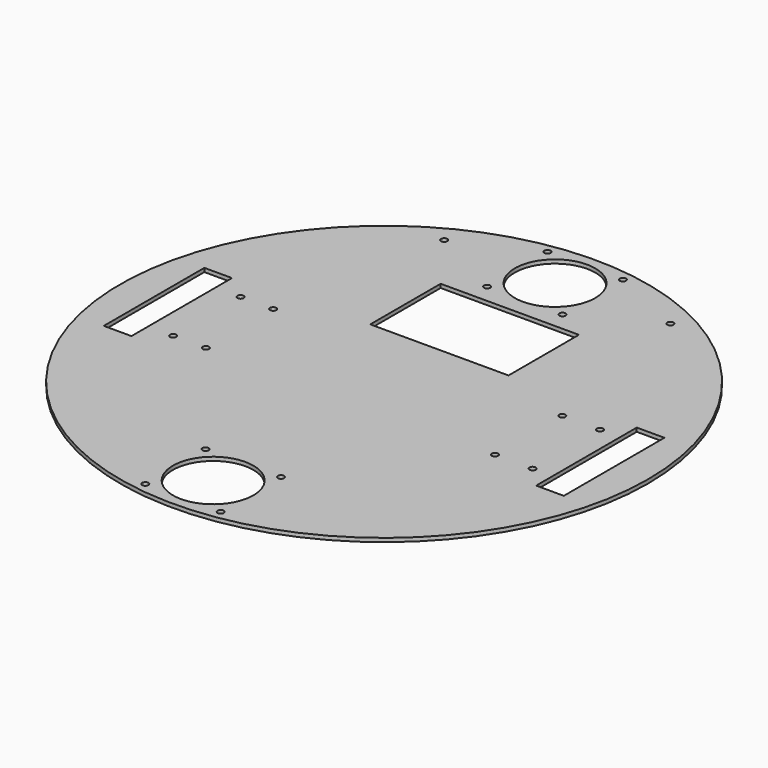
from build123d import *

# Parameters (mm, degrees)
SKETCH_R   = 210
SKETCH_R_2 = 32
SKETCH_R_3 = 2.5
SKETCH_W   = 22
SKETCH_H   = 100
SKETCH_W_2 = 110
SKETCH_H_2 = 70
PAD_DEPTH  = 1.5


with BuildPart() as part:
    # Sketch → Pad (new body, symmetric)
    with BuildSketch(Plane.XY):
        Circle(SKETCH_R)
        with Locations((0, 170)):
            Circle(SKETCH_R_2, mode=Mode.SUBTRACT)
        with Locations((0, -170)):
            Circle(SKETCH_R_2, mode=Mode.SUBTRACT)
        with Locations((-141, 33.5)):
            Circle(SKETCH_R_3, mode=Mode.SUBTRACT)
        with Locations((-141, -33.5)):
            Circle(SKETCH_R_3, mode=Mode.SUBTRACT)
        with Locations((-115, 33.5)):
            Circle(SKETCH_R_3, mode=Mode.SUBTRACT)
        with Locations((-115, -33.5)):
            Circle(SKETCH_R_3, mode=Mode.SUBTRACT)
        with Locations((115, 33.5)):
            Circle(SKETCH_R_3, mode=Mode.SUBTRACT)
        with Locations((115, -33.5)):
            Circle(SKETCH_R_3, mode=Mode.SUBTRACT)
        with Locations((145, 33.5)):
            Circle(SKETCH_R_3, mode=Mode.SUBTRACT)
        with Locations((145, -33.5)):
            Circle(SKETCH_R_3, mode=Mode.SUBTRACT)
        with Locations((-90, 172.29129)):
            Circle(SKETCH_R_3, mode=Mode.SUBTRACT)
        with Locations((90, 172.29129)):
            Circle(SKETCH_R_3, mode=Mode.SUBTRACT)
        with Locations((-30, 200)):
            Circle(SKETCH_R_3, mode=Mode.SUBTRACT)
        with Locations((30, 200)):
            Circle(SKETCH_R_3, mode=Mode.SUBTRACT)
        with Locations((-30, 140)):
            Circle(SKETCH_R_3, mode=Mode.SUBTRACT)
        with Locations((30, 140)):
            Circle(SKETCH_R_3, mode=Mode.SUBTRACT)
        with Locations((-30, -140)):
            Circle(SKETCH_R_3, mode=Mode.SUBTRACT)
        with Locations((30, -140)):
            Circle(SKETCH_R_3, mode=Mode.SUBTRACT)
        with Locations((-30, -200)):
            Circle(SKETCH_R_3, mode=Mode.SUBTRACT)
        with Locations((30, -200)):
            Circle(SKETCH_R_3, mode=Mode.SUBTRACT)
        with Locations((-172, 0)):
            Rectangle(SKETCH_W, SKETCH_H, mode=Mode.SUBTRACT)
        with Locations((172, 0)):
            Rectangle(SKETCH_W, SKETCH_H, mode=Mode.SUBTRACT)
        with Locations((0, 90)):
            Rectangle(SKETCH_W_2, SKETCH_H_2, mode=Mode.SUBTRACT)
    extrude(amount=PAD_DEPTH, both=True)


solid = part.part
